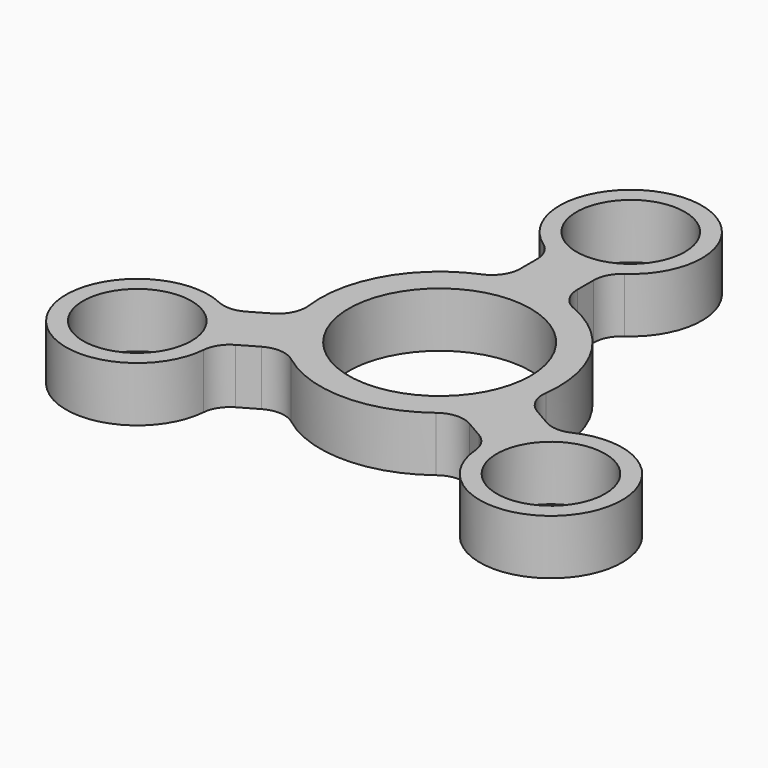
from build123d import *

# Parameters (mm, degrees)
F0_R     = 4.7625
F0_R_2   = 8
F1_DEPTH = 4.83


with BuildPart() as f1:
    # F0 (on Top) → F1 (new body)
    with BuildSketch(Plane.XY):
        with BuildLine():
            ThreePointArc((2.5, 13.80407), (2.784562, 14.962445), (3.573466, 15.857117))
            ThreePointArc((3.573466, 15.857117), (0, 27.2625), (-3.573466, 15.857117))
            ThreePointArc((-3.573466, 15.857117), (-2.784562, 14.962445), (-2.5, 13.80407))
            Line((-2.5, 13.80407), (-2.5, 12))
            ThreePointArc((-2.5, 12), (-2.919874, 10.61325), (-4.038462, 9.692308))
            ThreePointArc((-4.038462, 9.692308), (-9.093267, 5.25), (-10.413015, -1.348744))
            ThreePointArc((-10.413015, -1.348744), (-10.651281, -2.777939), (-11.642305, -3.834936))
            Line((-11.642305, -3.834936), (-13.204675, -4.736972))
            ThreePointArc((-13.204675, -4.736972), (-14.350139, -5.069722), (-15.5194, -4.833846))
            ThreePointArc((-15.5194, -4.833846), (-23.610018, -13.63125), (-11.945933, -11.023271))
            ThreePointArc((-11.945933, -11.023271), (-11.565577, -9.892724), (-10.704675, -9.067099))
            Line((-10.704675, -9.067099), (-9.142305, -8.165064))
            ThreePointArc((-9.142305, -8.165064), (-7.731407, -7.83531), (-6.374554, -8.343564))
            ThreePointArc((-6.374554, -8.343564), (0, -10.5), (6.374554, -8.343564))
            ThreePointArc((6.374554, -8.343564), (7.731407, -7.83531), (9.142305, -8.165064))
            Line((9.142305, -8.165064), (10.704675, -9.067099))
            ThreePointArc((10.704675, -9.067099), (11.565577, -9.892724), (11.945933, -11.023271))
            ThreePointArc((11.945933, -11.023271), (23.610018, -13.63125), (15.5194, -4.833846))
            ThreePointArc((15.5194, -4.833846), (14.350139, -5.069722), (13.204675, -4.736972))
            Line((13.204675, -4.736972), (11.642305, -3.834936))
            ThreePointArc((11.642305, -3.834936), (10.651281, -2.777939), (10.413015, -1.348744))
            ThreePointArc((10.413015, -1.348744), (9.093267, 5.25), (4.038462, 9.692308))
            ThreePointArc((4.038462, 9.692308), (2.919874, 10.61325), (2.5, 12))
            Line((2.5, 12), (2.5, 13.80407))
        make_face()
        with Locations((-18.186533, -10.5)):
            Circle(F0_R, mode=Mode.SUBTRACT)
        with Locations((18.186533, -10.5)):
            Circle(F0_R, mode=Mode.SUBTRACT)
        Circle(F0_R_2, mode=Mode.SUBTRACT)
        with Locations((0, 21)):
            Circle(F0_R, mode=Mode.SUBTRACT)
    extrude(amount=F1_DEPTH)


solid = f1.part
